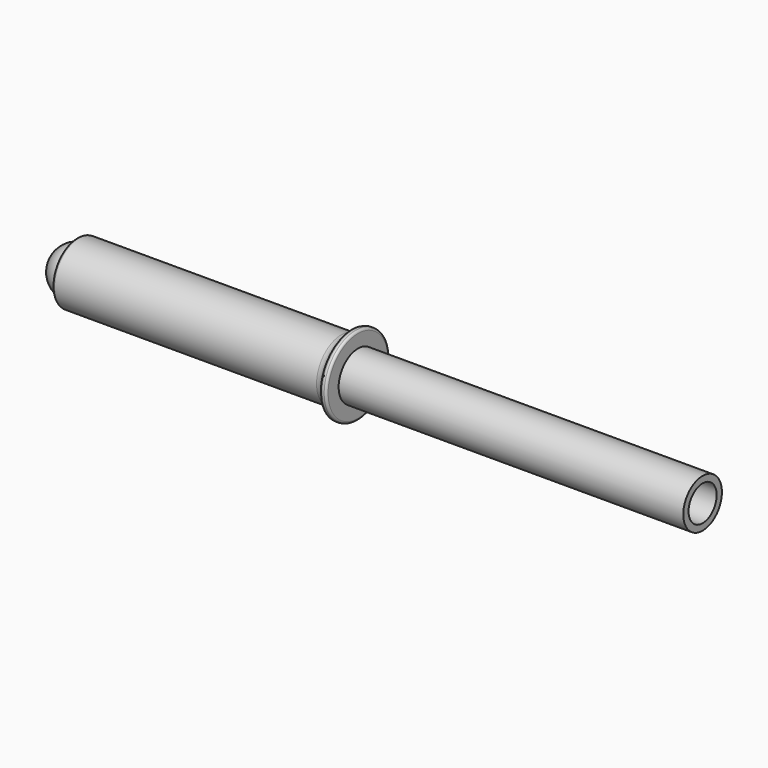
from build123d import *

# Parameters (mm, degrees)
F2_T     = -3
F5_R     = 11
F6_DEPTH = 139.001
F7_R     = 1
F8_R     = 5


with BuildPart() as f1:
    # F0 (on Front) → F1 (revolve)
    with BuildSketch(Plane.XZ):
        with BuildLine():
            Line((-296, 0), (0, 0))
            Line((0, 0), (0, 11))
            Line((0, 11), (-285, 11))
            ThreePointArc((-285, 11), (-292.7781745931, 7.7781745931), (-296, 0))
        make_face()
    revolve(axis=Axis((-148, 0, 0), (-1, 0, 0)))

    # F2
    f2_openings = [f1.faces().sort_by_distance(p)[0] for p in [
        (0, 0, 0),
    ]]
    offset(amount=F2_T, openings=f2_openings)


with BuildPart() as f4:
    # F3 (on Front) → F4 (revolve)
    with BuildSketch(Plane.XZ):
        Polygon((-285, 14), (-285, 0), (-157, 0), (-157, 18), (-160, 18), (-160, 14), align=None)
    revolve(axis=Axis((-221, 0, 0), (-1, 0, 0)))

    # F5 (on face) → F6 (cut, through all)
    with BuildSketch(Plane.YZ.offset(-157)):
        Circle(F5_R)
    extrude(amount=-F6_DEPTH, mode=Mode.SUBTRACT)

    # F7
    f7_edges = [f4.edges().sort_by_distance(p)[0] for p in [
        (-285, 0, -14),
        (-157, 0, -18),
        (-160, 0, -18),
        (-158.5, 0, 18),
    ]]
    fillet(f7_edges, radius=F7_R)

    # F8
    f8_edges = [f4.edges().sort_by_distance(p)[0] for p in [
        (-160, 0, -14),
    ]]
    fillet(f8_edges, radius=F8_R)


solid = Compound([f1.part, f4.part])
